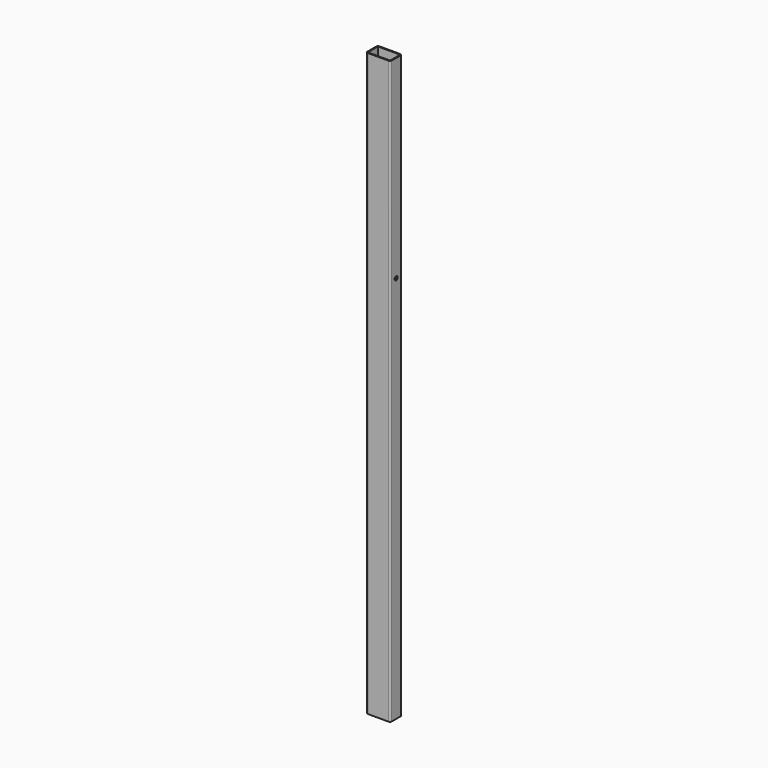
from build123d import *

# Parameters (mm, degrees)
F0_W     = 46
F0_H     = 26
F1_DEPTH = 1200
F3_D     = 8


with BuildPart() as f1:
    # F0 (on Top) → F1 (new body)
    with BuildSketch(Plane.XY):
        with BuildLine():
            ThreePointArc((25, 11.5), (23.974874, 13.974874), (21.5, 15))
            Line((21.5, 15), (-21.5, 15))
            ThreePointArc((-21.5, 15), (-23.974874, 13.974874), (-25, 11.5))
            Line((-25, 11.5), (-25, -11.5))
            ThreePointArc((-25, -11.5), (-23.974874, -13.974874), (-21.5, -15))
            Line((-21.5, -15), (21.5, -15))
            ThreePointArc((21.5, -15), (23.974874, -13.974874), (25, -11.5))
            Line((25, -11.5), (25, 11.5))
        make_face()
        Rectangle(F0_W, F0_H, mode=Mode.SUBTRACT)
    extrude(amount=F1_DEPTH)

    # F3 (through all)
    with Locations(Plane.YZ.offset(25)):
        with Locations((0, 800)):
            Hole(F3_D / 2)


solid = f1.part
